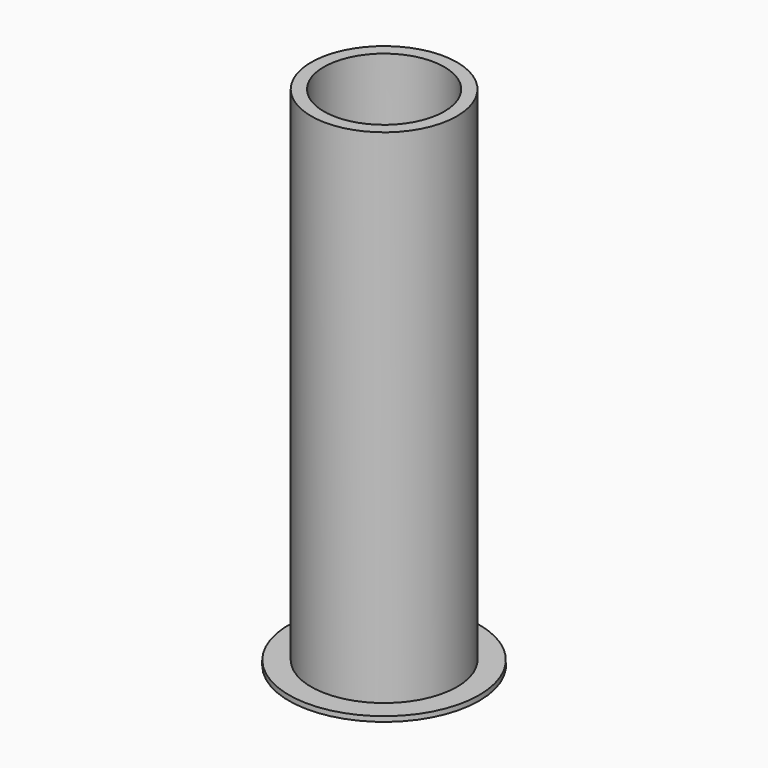
from build123d import *

# Parameters (mm, degrees)
F0_R      = 15
F0_R_2    = 11.5
F1_DEPTH  = 0.8
F0_R_3    = 9.5
F2_DEPTH  = 80
F4_R      = 9.5
F5_DEPTH  = 3
F7_R      = 9.5
F8_DEPTH  = 3
F10_DEPTH = 1
F11_COUNT = 3
F11_ANGLE = 120


with BuildPart() as f1:
    # F0 (on Top) → F1 (new body)
    with BuildSketch(Plane.XY):
        Circle(F0_R)
        Circle(F0_R_2, mode=Mode.SUBTRACT)
    extrude(amount=F1_DEPTH)



with BuildPart() as f1b:
    # F0 (on Top) → F1, piece 2 (new body)
    with BuildSketch(Plane.XY):
        Circle(F0_R_3)
    extrude(amount=F1_DEPTH)


with BuildPart() as f1_1:
    add(f1.part)

    add(f1b.part)  # F2 merges F1b
    # F0 (on Top) → F2 (join)
    with BuildSketch(Plane.XY):
        Circle(F0_R_2)
        Circle(F0_R_3, mode=Mode.SUBTRACT)
    extrude(amount=F2_DEPTH)

    # F4 (on offset) → F5 (join)
    with BuildSketch(Plane.XY.offset(20.8)):
        Circle(F4_R)
    extrude(amount=F5_DEPTH)

    # F7 (on offset) → F8 (join)
    with BuildSketch(Plane.XY.offset(58.8)):
        Circle(F7_R)
    extrude(amount=-F8_DEPTH)

    # F9 (on Front) → F10 (join, symmetric)
    with BuildSketch(Plane.XZ):
        Polygon((-1, 20.8), (-9.5, 20.8), (-9.5, 10.7640403081), (-2.1869234638, 19.3985981129), align=None)
        Polygon((0, 20.8), (-1, 20.8), (-2.1869234638, 19.3985981129), (0, 19.3985981129), (2.1869234638, 19.3985981129), (1, 20.8), align=None)
        Polygon((9.5, 20.8), (1, 20.8), (2.1869234638, 19.3985981129), (9.5, 10.7640403081), align=None)
        Polygon((-1.3762295453, 55.4016393049), (-1, 55.8), (-9.5, 55.8), (-9.5, 46.8), align=None)
        Polygon((0, 55.8), (-1, 55.8), (-1.3762295453, 55.4016393049), (0, 55.4016393049), (1.3762295453, 55.4016393049), (1, 55.8), align=None)
        Polygon((9.5, 55.8), (1, 55.8), (1.3762295453, 55.4016393049), (9.5, 46.8), align=None)
    extrude(amount=F10_DEPTH, both=True)

    # F11: F1 ×3 about axis
    f11_axis = Axis((0, 0, 50), (0, 0, 1))


with BuildPart() as f1_2:
    add(f1_1.part)
    for i in range(1, F11_COUNT):
        add(f1_1.part.rotate(f11_axis, i * F11_ANGLE / (F11_COUNT - 1)))


solid = f1_2.part
